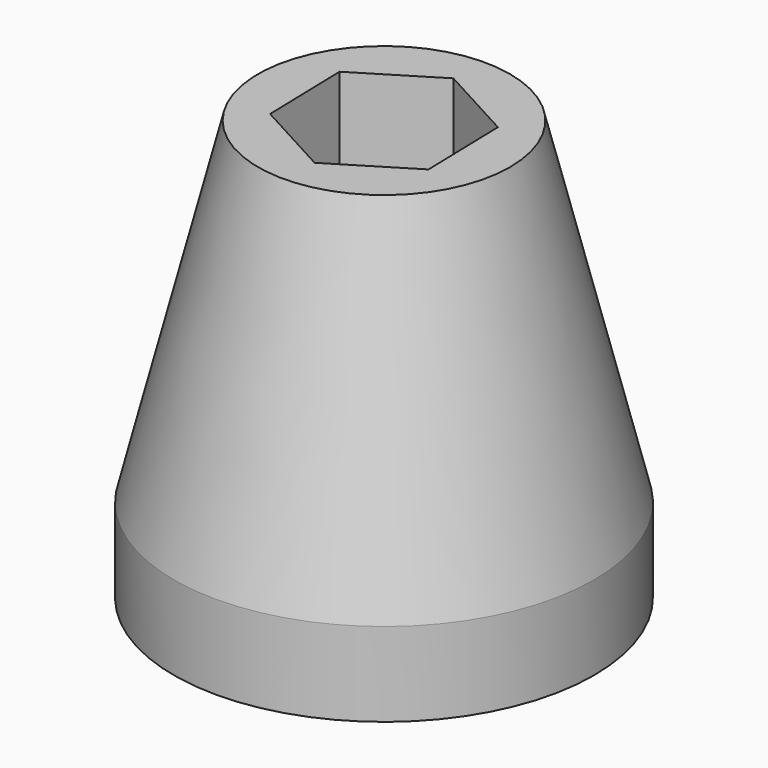
from build123d import *

# Parameters (mm, degrees)
F0_R     = 7.5
F1_DEPTH = 3
F2_R     = 7.5
F3_DEPTH = 12
F4_SIZE2 = 3
F4_SIZE  = 12
F6_DEPTH = 4
F7_R     = 1.6
F8_DEPTH = 11


with BuildPart() as f1:
    # F0 (on Top) → F1 (new body)
    with BuildSketch(Plane.XY):
        with Locations((-11.8269938976, 14.5979337394)):
            Circle(F0_R)
    extrude(amount=F1_DEPTH)

    # F2 (on face) → F3 (join)
    with BuildSketch(Plane.XY.offset(3)):
        with Locations((-11.8269938976, 14.5979337394)):
            Circle(F2_R)
        with Locations((-11.8269938976, 14.5979337394)):
            Circle(F2_R)
    extrude(amount=F3_DEPTH)

    # F4
    f4_edges = [f1.edges().sort_by_distance(p)[0] for p in [
        (-19.326994, 14.597934, 15),
    ]]
    f4_side = f1.faces().sort_by_distance((-19.326994, 14.597934, 7.5))[0]
    chamfer(f4_edges, length=F4_SIZE, length2=F4_SIZE2, reference=f4_side)

    # F5 (on face) → F6 (cut)
    with BuildSketch(Plane.XY.offset(15)):
        Polygon((-11.9095443248, 17.7979337394), (-14.6395504033, 16.1264429724), (-14.5569999761, 12.9264429724), (-11.7444434704, 11.3979337394), (-9.0144373918, 13.0694245065), (-9.096987819, 16.2694245065), align=None)
    extrude(amount=-F6_DEPTH, mode=Mode.SUBTRACT)

    # F7 (on face) → F8 (cut)
    with BuildSketch(Plane.XY.offset(11)):
        with Locations((-11.8269938976, 14.5979337394)):
            Circle(F7_R)
    extrude(amount=-F8_DEPTH, mode=Mode.SUBTRACT)


solid = f1.part
